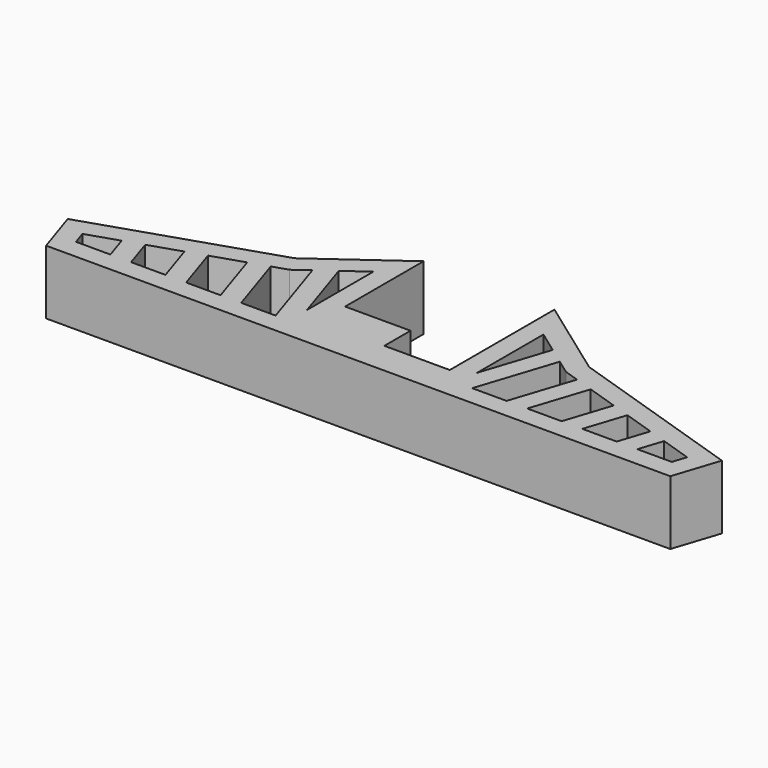
from build123d import *

# Parameters (mm, degrees)
F0_W     = 10
F0_H     = 5
F1_DEPTH = 9.8


with BuildPart() as f1:
    # F0 (on Top) → F1 (new body)
    with BuildSketch(Plane.XY):
        Polygon((-58.0826066434, -27.8667167127), (-55.7916975525, -34.8667167127), (-18.0826066434, -34.8667167127), (-18.0826066434, -29.8667167127), (-18.0826066434, -24.8667167127), (-18.0826066434, -9.8667167127), (-30.5826066434, -18.8667167127), align=None)
        Polygon((-24.4391458737, -18.1401245014), (-21.0826052725, -15.7234152686), (-21.0826052725, -28.3962207829), (-21.0826052725, -31.8667180836), (-23.1033813478, -31.8667180836), (-28.364340001, -31.8667180836), (-31.5209151929, -31.8667180836), (-36.7818738461, -31.8667180836), (-39.938449038, -31.8667180836), (-45.1994076912, -31.8667180836), (-48.3559828831, -31.8667180836), (-53.6169415362, -31.8667180836), (-54.2982998044, -29.7847900421), (-49.5463141591, -28.22959474), (-46.695122772, -27.2964775588), (-41.9431371268, -25.7412822567), (-39.0919457397, -24.8081650755), (-34.3399600944, -23.2529697734), (-31.4887687073, -22.3198525922), (-29.207286336, -21.5731856343), (-26.993760876, -19.9794473031), align=None, mode=Mode.SUBTRACT)
        Polygon((1.9173933566, -29.8667167127), (1.9173933566, -34.8667167127), (39.6264842657, -34.8667167127), (41.9173933566, -27.8667167127), (14.4173933566, -18.8667167127), (1.9173933566, -9.8667167127), (1.9173933566, -24.8667167127), align=None)
        Polygon((6.9381666011, -31.8667160698), (4.9173939994, -31.8667160698), (4.9173939994, -28.3962081552), (4.9173939994, -15.7234192), (8.2739302148, -18.140125275), (10.8285452171, -19.9794480766), (13.042072126, -21.573187451), (15.3235528801, -22.3198538797), (18.1747442673, -23.2529710609), (22.9267299125, -24.808166363), (25.7779212996, -25.7412835442), (30.5299069449, -27.2964788463), (33.381098332, -28.2295960276), (38.1330839772, -29.7847913296), (37.4517267895, -31.8667160698), (32.1907681363, -31.8667160698), (29.0341929444, -31.8667160698), (23.7732342913, -31.8667160698), (20.6166590994, -31.8667160698), (15.3557004462, -31.8667160698), (12.1991252543, -31.8667160698), align=None, mode=Mode.SUBTRACT)
        with Locations((-13.0826066434, -32.3667167127)):
            Rectangle(F0_W, F0_H)
        with Locations((-3.0826066434, -32.3667167127)):
            Rectangle(F0_W, F0_H)
        with Locations((-13.0826066434, -27.3667167127)):
            Rectangle(F0_W, F0_H)
        Polygon((-21.0826052725, -31.8667180836), (-21.0826052725, -28.3962207829), (-24.4391458737, -18.1401245014), (-26.993760876, -19.9794473031), (-23.1033813478, -31.8667180836), align=None)
        Polygon((4.9173939994, -28.3962081552), (4.9173939994, -31.8667160698), (6.9381666011, -31.8667160698), (10.8285452171, -19.9794480766), (8.2739302148, -18.140125275), align=None)
        Polygon((-31.5209151929, -31.8667180836), (-28.364340001, -31.8667180836), (-31.4887687073, -22.3198525922), (-34.3399600944, -23.2529697734), align=None)
        Polygon((15.3235528801, -22.3198538797), (12.1991252543, -31.8667160698), (15.3557004462, -31.8667160698), (18.1747442673, -23.2529710609), align=None)
        Polygon((-39.938449038, -31.8667180836), (-36.7818738461, -31.8667180836), (-39.0919457397, -24.8081650755), (-41.9431371268, -25.7412822567), align=None)
        Polygon((22.9267299125, -24.808166363), (20.6166590994, -31.8667160698), (23.7732342913, -31.8667160698), (25.7779212996, -25.7412835442), align=None)
        Polygon((-48.3559828831, -31.8667180836), (-45.1994076912, -31.8667180836), (-46.695122772, -27.2964775588), (-49.5463141591, -28.22959474), align=None)
        Polygon((30.5299069449, -27.2964788463), (29.0341929444, -31.8667160698), (32.1907681363, -31.8667160698), (33.381098332, -28.2295960276), align=None)
    extrude(amount=F1_DEPTH)


solid = f1.part
